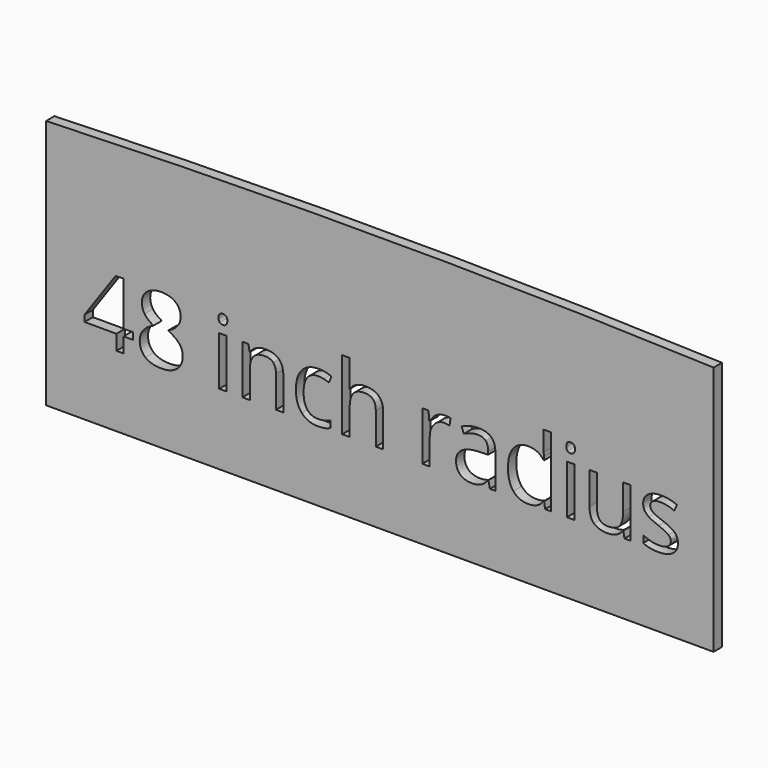
from build123d import *

# Parameters (mm, degrees)
F0_W     = 2.262627416
F0_H     = 14.9315971095
F1_DEPTH = 3.175


with BuildPart() as f1:
    # F0 (on Front) → F1 (new body)
    with BuildSketch(Plane.XZ):
        with BuildLine():
            Line((101.6, 2656.9875628301), (101.6, 2733.1875628301))
            ThreePointArc((101.6, 2733.1875628301), (0, 2735.0752848156), (-101.6, 2733.1875628301))
            Line((-101.6, 2733.1875628301), (-101.6, 2656.9875628301))
            Line((-101.6, 2656.9875628301), (101.6, 2656.9875628301))
        make_face()
        Polygon((-75.0654620295, 2685.1809285162), (-75.0654620295, 2683.1232018489), (-78.0212643186, 2683.1232018489), (-78.0212643186, 2678.5456319321), (-80.1879807459, 2678.5456319321), (-80.1879807459, 2683.1232018489), (-89.8749906079, 2683.1232018489), (-89.8749906079, 2685.0980962987), (-80.4190390369, 2698.5735902156), (-78.0212643186, 2698.5735902156), (-78.0212643186, 2685.1809285162), align=None, mode=Mode.SUBTRACT)
        with BuildLine():
            add(Edge.make_bspline(
                [(-70.8366593444, 2697.4618946644), (-69.2366896688, 2698.7479738315), (-66.5511819842, 2698.7479738315)],
                knots=[0, 0, 0, 1, 1, 1], degree=2))
            add(Edge.make_bspline(
                [(-66.5511819842, 2698.7479738315), (-63.8264379861, 2698.7479738315), (-62.2330076961, 2697.4815128212)],
                knots=[0, 0, 0, 1, 1, 1], degree=2))
            add(Edge.make_bspline(
                [(-62.2330076961, 2697.4815128212), (-60.639577406, 2696.2150518109), (-60.639577406, 2693.9829415277)],
                knots=[0, 0, 0, 1, 1, 1], degree=2))
            add(Edge.make_bspline(
                [(-60.639577406, 2693.9829415277), (-60.639577406, 2692.5093999735), (-61.5507317989, 2691.2974338431)],
                knots=[0, 0, 0, 1, 1, 1], degree=2))
            add(Edge.make_bspline(
                [(-61.5507317989, 2691.2974338431), (-62.4618861919, 2690.0854677128), (-64.4672977745, 2689.0914811023)],
                knots=[0, 0, 0, 1, 1, 1], degree=2))
            add(Edge.make_bspline(
                [(-64.4672977745, 2689.0914811023), (-62.0433655138, 2687.9318300567), (-61.0210415657, 2686.6588296608)],
                knots=[0, 0, 0, 1, 1, 1], degree=2))
            add(Edge.make_bspline(
                [(-61.0210415657, 2686.6588296608), (-59.9987176176, 2685.3858292649), (-59.9987176176, 2683.7073869621)],
                knots=[0, 0, 0, 1, 1, 1], degree=2))
            add(Edge.make_bspline(
                [(-59.9987176176, 2683.7073869621), (-59.9987176176, 2681.2311396166), (-61.7294750052, 2679.7510586768)],
                knots=[0, 0, 0, 1, 1, 1], degree=2))
            add(Edge.make_bspline(
                [(-61.7294750052, 2679.7510586768), (-63.4602323928, 2678.2709777371), (-66.4683497667, 2678.2709777371)],
                knots=[0, 0, 0, 1, 1, 1], degree=2))
            add(Edge.make_bspline(
                [(-66.4683497667, 2678.2709777371), (-69.6552103469, 2678.2709777371), (-71.3728889633, 2679.6682264593)],
                knots=[0, 0, 0, 1, 1, 1], degree=2))
            add(Edge.make_bspline(
                [(-71.3728889633, 2679.6682264593), (-73.0905675796, 2681.0654751815), (-73.0905675796, 2683.6289143349)],
                knots=[0, 0, 0, 1, 1, 1], degree=2))
            add(Edge.make_bspline(
                [(-73.0905675796, 2683.6289143349), (-73.0905675796, 2687.0468332061), (-68.9227991602, 2688.9563338)],
                knots=[0, 0, 0, 1, 1, 1], degree=2))
            add(Edge.make_bspline(
                [(-68.9227991602, 2688.9563338), (-70.8017826213, 2690.0157142664), (-71.6192058207, 2691.2494783488)],
                knots=[0, 0, 0, 1, 1, 1], degree=2))
            add(Edge.make_bspline(
                [(-71.6192058207, 2691.2494783488), (-72.4366290201, 2692.4832424311), (-72.4366290201, 2694.00909907)],
                knots=[0, 0, 0, 1, 1, 1], degree=2))
            add(Edge.make_bspline(
                [(-72.4366290201, 2694.00909907), (-72.4366290201, 2696.1758154973), (-70.8366593444, 2697.4618946644)],
                knots=[0, 0, 0, 1, 1, 1], degree=2))
        make_face(mode=Mode.SUBTRACT)
        with Locations((-47.7766059398, 2686.0114304869)):
            Rectangle(F0_W, F0_H, mode=Mode.SUBTRACT)
        with BuildLine():
            Line((-29.3682354887, 2678.5456319321), (-31.6308629047, 2678.5456319321))
            Line((-31.6308629047, 2678.5456319321), (-31.6308629047, 2688.2064842517))
            add(Edge.make_bspline(
                [(-31.6308629047, 2688.2064842517), (-31.6308629047, 2690.0287930376), (-32.4613648753, 2690.9290484546)],
                knots=[0, 0, 0, 1, 1, 1], degree=2))
            add(Edge.make_bspline(
                [(-32.4613648753, 2690.9290484546), (-33.291866846, 2691.8293038716), (-35.0662201375, 2691.8293038716)],
                knots=[0, 0, 0, 1, 1, 1], degree=2))
            add(Edge.make_bspline(
                [(-35.0662201375, 2691.8293038716), (-37.4073201807, 2691.8293038716), (-38.4972177799, 2690.5628428613)],
                knots=[0, 0, 0, 1, 1, 1], degree=2))
            add(Edge.make_bspline(
                [(-38.4972177799, 2690.5628428613), (-39.5871153791, 2689.296381851), (-39.5871153791, 2686.3798158754)],
                knots=[0, 0, 0, 1, 1, 1], degree=2))
            Line((-39.5871153791, 2686.3798158754), (-39.5871153791, 2678.5456319321))
            Line((-39.5871153791, 2678.5456319321), (-41.8497427952, 2678.5456319321))
            Line((-41.8497427952, 2678.5456319321), (-41.8497427952, 2693.4772290416))
            Line((-41.8497427952, 2693.4772290416), (-40.0099956477, 2693.4772290416))
            Line((-40.0099956477, 2693.4772290416), (-39.6437900543, 2691.4325811455))
            Line((-39.6437900543, 2691.4325811455), (-39.5348002944, 2691.4325811455))
            add(Edge.make_bspline(
                [(-39.5348002944, 2691.4325811455), (-38.8372658309, 2692.5355575159), (-37.5838835918, 2693.1437203763)],
                knots=[0, 0, 0, 1, 1, 1], degree=2))
            add(Edge.make_bspline(
                [(-37.5838835918, 2693.1437203763), (-36.3305013526, 2693.7518832366), (-34.7915659425, 2693.7518832366)],
                knots=[0, 0, 0, 1, 1, 1], degree=2))
            add(Edge.make_bspline(
                [(-34.7915659425, 2693.7518832366), (-32.0929794868, 2693.7518832366), (-30.7306074878, 2692.4505455031)],
                knots=[0, 0, 0, 1, 1, 1], degree=2))
            add(Edge.make_bspline(
                [(-30.7306074878, 2692.4505455031), (-29.3682354887, 2691.1492077697), (-29.3682354887, 2688.2849568789)],
                knots=[0, 0, 0, 1, 1, 1], degree=2))
            Line((-29.3682354887, 2688.2849568789), (-29.3682354887, 2678.5456319321))
        make_face(mode=Mode.SUBTRACT)
        with BuildLine():
            add(Edge.make_bspline(
                [(-14.9859467692, 2679.0513444181), (-16.4812862754, 2678.2709777371), (-18.7569924626, 2678.2709777371)],
                knots=[0, 0, 0, 1, 1, 1], degree=2))
            add(Edge.make_bspline(
                [(-18.7569924626, 2678.2709777371), (-22.0005277179, 2678.2709777371), (-23.7792405998, 2680.2676701389)],
                knots=[0, 0, 0, 1, 1, 1], degree=2))
            add(Edge.make_bspline(
                [(-23.7792405998, 2680.2676701389), (-25.5579534818, 2682.2643625407), (-25.5579534818, 2685.9176992933)],
                knots=[0, 0, 0, 1, 1, 1], degree=2))
            add(Edge.make_bspline(
                [(-25.5579534818, 2685.9176992933), (-25.5579534818, 2689.6625874443), (-23.7509032623, 2691.7072353405)],
                knots=[0, 0, 0, 1, 1, 1], degree=2))
            add(Edge.make_bspline(
                [(-23.7509032623, 2691.7072353405), (-21.9438530427, 2693.7518832366), (-18.6087663891, 2693.7518832366)],
                knots=[0, 0, 0, 1, 1, 1], degree=2))
            add(Edge.make_bspline(
                [(-18.6087663891, 2693.7518832366), (-17.531947561, 2693.7518832366), (-16.455128733, 2693.5186451504)],
                knots=[0, 0, 0, 1, 1, 1], degree=2))
            add(Edge.make_bspline(
                [(-16.455128733, 2693.5186451504), (-15.3783099049, 2693.2854070642), (-14.7679672494, 2692.9715165556)],
                knots=[0, 0, 0, 1, 1, 1], degree=2))
            Line((-14.7679672494, 2692.9715165556), (-15.4611421225, 2691.0532967809))
            add(Edge.make_bspline(
                [(-15.4611421225, 2691.0532967809), (-16.2109916707, 2691.3541085183), (-17.0959885213, 2691.5502900862)],
                knots=[0, 0, 0, 1, 1, 1], degree=2))
            add(Edge.make_bspline(
                [(-17.0959885213, 2691.5502900862), (-17.9809853719, 2691.746471654), (-18.6610814738, 2691.746471654)],
                knots=[0, 0, 0, 1, 1, 1], degree=2))
            add(Edge.make_bspline(
                [(-18.6610814738, 2691.746471654), (-23.2124938482, 2691.746471654), (-23.2124938482, 2685.9438568357)],
                knots=[0, 0, 0, 1, 1, 1], degree=2))
            add(Edge.make_bspline(
                [(-23.2124938482, 2685.9438568357), (-23.2124938482, 2683.1929552952), (-22.1029780922, 2681.7215935363)],
                knots=[0, 0, 0, 1, 1, 1], degree=2))
            add(Edge.make_bspline(
                [(-22.1029780922, 2681.7215935363), (-20.9934623362, 2680.2502317773), (-18.8136671377, 2680.2502317773)],
                knots=[0, 0, 0, 1, 1, 1], degree=2))
            add(Edge.make_bspline(
                [(-18.8136671377, 2680.2502317773), (-16.9477624478, 2680.2502317773), (-14.9859467692, 2681.0523964103)],
                knots=[0, 0, 0, 1, 1, 1], degree=2))
            Line((-14.9859467692, 2681.0523964103), (-14.9859467692, 2679.0513444181))
        make_face(mode=Mode.SUBTRACT)
        with BuildLine():
            Line((1.03990753, 2678.5456319321), (-1.2227198861, 2678.5456319321))
            Line((-1.2227198861, 2678.5456319321), (-1.2227198861, 2688.2064842517))
            add(Edge.make_bspline(
                [(-1.2227198861, 2688.2064842517), (-1.2227198861, 2690.0287930376), (-2.0532218567, 2690.9290484546)],
                knots=[0, 0, 0, 1, 1, 1], degree=2))
            add(Edge.make_bspline(
                [(-2.0532218567, 2690.9290484546), (-2.8837238273, 2691.8293038716), (-4.6580771189, 2691.8293038716)],
                knots=[0, 0, 0, 1, 1, 1], degree=2))
            add(Edge.make_bspline(
                [(-4.6580771189, 2691.8293038716), (-7.0122559332, 2691.8293038716), (-8.0956141468, 2690.5475842949)],
                knots=[0, 0, 0, 1, 1, 1], degree=2))
            add(Edge.make_bspline(
                [(-8.0956141468, 2690.5475842949), (-9.1789723605, 2689.2658647182), (-9.1789723605, 2686.353658333)],
                knots=[0, 0, 0, 1, 1, 1], degree=2))
            Line((-9.1789723605, 2686.353658333), (-9.1789723605, 2678.5456319321))
            Line((-9.1789723605, 2678.5456319321), (-11.4415997765, 2678.5456319321))
            Line((-11.4415997765, 2678.5456319321), (-11.4415997765, 2699.7463200324))
            Line((-11.4415997765, 2699.7463200324), (-9.1789723605, 2699.7463200324))
            Line((-9.1789723605, 2699.7463200324), (-9.1789723605, 2693.3290029681))
            add(Edge.make_bspline(
                [(-9.1789723605, 2693.3290029681), (-9.1789723605, 2692.1693519225), (-9.2879621204, 2691.4064236031)],
                knots=[0, 0, 0, 1, 1, 1], degree=2))
            Line((-9.2879621204, 2691.4064236031), (-9.1528148181, 2691.4064236031))
            add(Edge.make_bspline(
                [(-9.1528148181, 2691.4064236031), (-8.4857974874, 2692.4832424311), (-7.252033405, 2693.1023042675)],
                knots=[0, 0, 0, 1, 1, 1], degree=2))
            add(Edge.make_bspline(
                [(-7.252033405, 2693.1023042675), (-6.0182693227, 2693.7213661038), (-4.440097599, 2693.7213661038)],
                knots=[0, 0, 0, 1, 1, 1], degree=2))
            add(Edge.make_bspline(
                [(-4.440097599, 2693.7213661038), (-1.7022748297, 2693.7213661038), (-0.3311836499, 2692.4200283704)],
                knots=[0, 0, 0, 1, 1, 1], degree=2))
            add(Edge.make_bspline(
                [(-0.3311836499, 2692.4200283704), (1.03990753, 2691.1186906369), (1.03990753, 2688.2849568789)],
                knots=[0, 0, 0, 1, 1, 1], degree=2))
            Line((1.03990753, 2688.2849568789), (1.03990753, 2678.5456319321))
        make_face(mode=Mode.SUBTRACT)
        with BuildLine():
            add(Edge.make_bspline(
                [(17.1703919986, 2692.9606175796), (18.3431218154, 2693.7518832366), (19.7469099232, 2693.7518832366)],
                knots=[0, 0, 0, 1, 1, 1], degree=2))
            add(Edge.make_bspline(
                [(19.7469099232, 2693.7518832366), (20.7408965337, 2693.7518832366), (21.5299823956, 2693.5862188015)],
                knots=[0, 0, 0, 1, 1, 1], degree=2))
            Line((21.5299823956, 2693.5862188015), (21.216091887, 2691.4892558206))
            add(Edge.make_bspline(
                [(21.216091887, 2691.4892558206), (20.2918587228, 2691.6941565693), (19.5812454881, 2691.6941565693)],
                knots=[0, 0, 0, 1, 1, 1], degree=2))
            add(Edge.make_bspline(
                [(19.5812454881, 2691.6941565693), (17.767655883, 2691.6941565693), (16.4815767159, 2690.2227948103)],
                knots=[0, 0, 0, 1, 1, 1], degree=2))
            add(Edge.make_bspline(
                [(16.4815767159, 2690.2227948103), (15.1954975488, 2688.7514330513), (15.1954975488, 2686.5585590817)],
                knots=[0, 0, 0, 1, 1, 1], degree=2))
            Line((15.1954975488, 2686.5585590817), (15.1954975488, 2678.5456319321))
            Line((15.1954975488, 2678.5456319321), (12.9328701328, 2678.5456319321))
            Line((12.9328701328, 2678.5456319321), (12.9328701328, 2693.4772290416))
            Line((12.9328701328, 2693.4772290416), (14.7987748227, 2693.4772290416))
            Line((14.7987748227, 2693.4772290416), (15.0603502465, 2690.71324873))
            Line((15.0603502465, 2690.71324873), (15.1693400064, 2690.71324873))
            add(Edge.make_bspline(
                [(15.1693400064, 2690.71324873), (15.9976621819, 2692.1693519225), (17.1703919986, 2692.9606175796)],
                knots=[0, 0, 0, 1, 1, 1], degree=2))
        make_face(mode=Mode.SUBTRACT)
        with BuildLine():
            Line((35.1842195188, 2678.5456319321), (33.505777216, 2678.5456319321))
            Line((33.505777216, 2678.5456319321), (33.0567394051, 2680.6731120458))
            Line((33.0567394051, 2680.6731120458), (32.9477496452, 2680.6731120458))
            add(Edge.make_bspline(
                [(32.9477496452, 2680.6731120458), (31.8316945036, 2679.269323938), (30.7221787475, 2678.7701508375)],
                knots=[0, 0, 0, 1, 1, 1], degree=2))
            add(Edge.make_bspline(
                [(30.7221787475, 2678.7701508375), (29.6126629915, 2678.2709777371), (27.9472994599, 2678.2709777371)],
                knots=[0, 0, 0, 1, 1, 1], degree=2))
            add(Edge.make_bspline(
                [(27.9472994599, 2678.2709777371), (25.7282679478, 2678.2709777371), (24.4683463231, 2679.4175500115)],
                knots=[0, 0, 0, 1, 1, 1], degree=2))
            add(Edge.make_bspline(
                [(24.4683463231, 2679.4175500115), (23.2084246984, 2680.5641222859), (23.2084246984, 2682.674164038)],
                knots=[0, 0, 0, 1, 1, 1], degree=2))
            add(Edge.make_bspline(
                [(23.2084246984, 2682.674164038), (23.2084246984, 2687.1950592796), (30.4409851669, 2687.4130387995)],
                knots=[0, 0, 0, 1, 1, 1], degree=2))
            Line((30.4409851669, 2687.4130387995), (32.9739071876, 2687.495871017))
            Line((32.9739071876, 2687.495871017), (32.9739071876, 2688.4244637716))
            add(Edge.make_bspline(
                [(32.9739071876, 2688.4244637716), (32.9739071876, 2690.1813787015), (32.2196980489, 2691.0184200577)],
                knots=[0, 0, 0, 1, 1, 1], degree=2))
            add(Edge.make_bspline(
                [(32.2196980489, 2691.0184200577), (31.4654889102, 2691.855461414), (29.8001253786, 2691.855461414)],
                knots=[0, 0, 0, 1, 1, 1], degree=2))
            add(Edge.make_bspline(
                [(29.8001253786, 2691.855461414), (27.9342206887, 2691.855461414), (25.5800418743, 2690.71324873)],
                knots=[0, 0, 0, 1, 1, 1], degree=2))
            Line((25.5800418743, 2690.71324873), (24.8825074108, 2692.4440061175))
            add(Edge.make_bspline(
                [(24.8825074108, 2692.4440061175), (25.9854837813, 2693.0412700019), (27.2999002859, 2693.3813180529)],
                knots=[0, 0, 0, 1, 1, 1], degree=2))
            add(Edge.make_bspline(
                [(27.2999002859, 2693.3813180529), (28.6143167906, 2693.7213661038), (29.9396322713, 2693.7213661038)],
                knots=[0, 0, 0, 1, 1, 1], degree=2))
            add(Edge.make_bspline(
                [(29.9396322713, 2693.7213661038), (32.6077015942, 2693.7213661038), (33.8959605565, 2692.5377373111)],
                knots=[0, 0, 0, 1, 1, 1], degree=2))
            add(Edge.make_bspline(
                [(33.8959605565, 2692.5377373111), (35.1842195188, 2691.3541085183), (35.1842195188, 2688.7383542801)],
                knots=[0, 0, 0, 1, 1, 1], degree=2))
            Line((35.1842195188, 2688.7383542801), (35.1842195188, 2678.5456319321))
        make_face(mode=Mode.SUBTRACT)
        with BuildLine():
            Line((50.3032790154, 2678.5456319321), (50.002467278, 2680.5466839243))
            Line((50.002467278, 2680.5466839243), (49.8803987469, 2680.5466839243))
            add(Edge.make_bspline(
                [(49.8803987469, 2680.5466839243), (48.3153057944, 2678.2709777371), (45.1938390702, 2678.2709777371)],
                knots=[0, 0, 0, 1, 1, 1], degree=2))
            add(Edge.make_bspline(
                [(45.1938390702, 2678.2709777371), (42.2641943234, 2678.2709777371), (40.6358873102, 2680.2742095245)],
                knots=[0, 0, 0, 1, 1, 1], degree=2))
            add(Edge.make_bspline(
                [(40.6358873102, 2680.2742095245), (39.0075802969, 2682.2774413119), (39.0075802969, 2685.9700143781)],
                knots=[0, 0, 0, 1, 1, 1], degree=2))
            add(Edge.make_bspline(
                [(39.0075802969, 2685.9700143781), (39.0075802969, 2689.6625874443), (40.6424266958, 2691.7072353405)],
                knots=[0, 0, 0, 1, 1, 1], degree=2))
            add(Edge.make_bspline(
                [(40.6424266958, 2691.7072353405), (42.2772730946, 2693.7518832366), (45.1938390702, 2693.7518832366)],
                knots=[0, 0, 0, 1, 1, 1], degree=2))
            add(Edge.make_bspline(
                [(45.1938390702, 2693.7518832366), (48.2324735768, 2693.7518832366), (49.8542412045, 2691.5415709054)],
                knots=[0, 0, 0, 1, 1, 1], degree=2))
            Line((49.8542412045, 2691.5415709054), (50.0329844108, 2691.5415709054))
            Line((50.0329844108, 2691.5415709054), (49.9370734221, 2692.6183897334))
            Line((49.9370734221, 2692.6183897334), (49.8803987469, 2693.6690510191))
            Line((49.8803987469, 2693.6690510191), (49.8803987469, 2699.7463200324))
            Line((49.8803987469, 2699.7463200324), (52.1430261629, 2699.7463200324))
            Line((52.1430261629, 2699.7463200324), (52.1430261629, 2678.5456319321))
            Line((52.1430261629, 2678.5456319321), (50.3032790154, 2678.5456319321))
        make_face(mode=Mode.SUBTRACT)
        with Locations((58.0698893075, 2686.0114304869)):
            Rectangle(F0_W, F0_H, mode=Mode.SUBTRACT)
        with BuildLine():
            Line((63.8354476075, 2693.4772290416), (66.1242325659, 2693.4772290416))
            Line((66.1242325659, 2693.4772290416), (66.1242325659, 2683.7902191796))
            add(Edge.make_bspline(
                [(66.1242325659, 2683.7902191796), (66.1242325659, 2681.9635508033), (66.9547345365, 2681.0654751815)],
                knots=[0, 0, 0, 1, 1, 1], degree=2))
            add(Edge.make_bspline(
                [(66.9547345365, 2681.0654751815), (67.7852365071, 2680.1673995598), (69.5552302083, 2680.1673995598)],
                knots=[0, 0, 0, 1, 1, 1], degree=2))
            add(Edge.make_bspline(
                [(69.5552302083, 2680.1673995598), (71.9006898418, 2680.1673995598), (72.9818682603, 2681.4469393413)],
                knots=[0, 0, 0, 1, 1, 1], degree=2))
            add(Edge.make_bspline(
                [(72.9818682603, 2681.4469393413), (74.0630466787, 2682.7264791228), (74.0630466787, 2685.6299663271)],
                knots=[0, 0, 0, 1, 1, 1], degree=2))
            Line((74.0630466787, 2685.6299663271), (74.0630466787, 2693.4772290416))
            Line((74.0630466787, 2693.4772290416), (76.3256740947, 2693.4772290416))
            Line((76.3256740947, 2693.4772290416), (76.3256740947, 2678.5456319321))
            Line((76.3256740947, 2678.5456319321), (74.4597694049, 2678.5456319321))
            Line((74.4597694049, 2678.5456319321), (74.1328001251, 2680.5466839243))
            Line((74.1328001251, 2680.5466839243), (74.010731594, 2680.5466839243))
            add(Edge.make_bspline(
                [(74.010731594, 2680.5466839243), (73.3175567209, 2679.4437075539), (72.0837926385, 2678.8573426455)],
                knots=[0, 0, 0, 1, 1, 1], degree=2))
            add(Edge.make_bspline(
                [(72.0837926385, 2678.8573426455), (70.8500285562, 2678.2709777371), (69.2674972421, 2678.2709777371)],
                knots=[0, 0, 0, 1, 1, 1], degree=2))
            add(Edge.make_bspline(
                [(69.2674972421, 2678.2709777371), (66.542753244, 2678.2709777371), (65.1891004258, 2679.565776085)],
                knots=[0, 0, 0, 1, 1, 1], degree=2))
            add(Edge.make_bspline(
                [(65.1891004258, 2679.565776085), (63.8354476075, 2680.8605744329), (63.8354476075, 2683.7073869621)],
                knots=[0, 0, 0, 1, 1, 1], degree=2))
            Line((63.8354476075, 2683.7073869621), (63.8354476075, 2693.4772290416))
        make_face(mode=Mode.SUBTRACT)
        with BuildLine():
            add(Edge.make_bspline(
                [(89.8186063733, 2685.0850175275), (90.7515587182, 2684.1041096882), (90.7515587182, 2682.6174893628)],
                knots=[0, 0, 0, 1, 1, 1], degree=2))
            add(Edge.make_bspline(
                [(90.7515587182, 2682.6174893628), (90.7515587182, 2680.5336051531), (89.1995445369, 2679.4022914451)],
                knots=[0, 0, 0, 1, 1, 1], degree=2))
            add(Edge.make_bspline(
                [(89.1995445369, 2679.4022914451), (87.6475303556, 2678.2709777371), (84.83995414, 2678.2709777371)],
                knots=[0, 0, 0, 1, 1, 1], degree=2))
            add(Edge.make_bspline(
                [(84.83995414, 2678.2709777371), (81.8710730797, 2678.2709777371), (80.2100691384, 2679.2126492628)],
                knots=[0, 0, 0, 1, 1, 1], degree=2))
            Line((80.2100691384, 2679.2126492628), (80.2100691384, 2681.3096122438))
            add(Edge.make_bspline(
                [(80.2100691384, 2681.3096122438), (81.2868879665, 2680.7646634441), (82.5184722536, 2680.4529527308)],
                knots=[0, 0, 0, 1, 1, 1], degree=2))
            add(Edge.make_bspline(
                [(82.5184722536, 2680.4529527308), (83.7500565407, 2680.1412420174), (84.8966288151, 2680.1412420174)],
                knots=[0, 0, 0, 1, 1, 1], degree=2))
            add(Edge.make_bspline(
                [(84.8966288151, 2680.1412420174), (86.6666225163, 2680.1412420174), (87.619193018, 2680.7058089738)],
                knots=[0, 0, 0, 1, 1, 1], degree=2))
            add(Edge.make_bspline(
                [(87.619193018, 2680.7058089738), (88.5717635198, 2681.2703759302), (88.5717635198, 2682.4300269758)],
                knots=[0, 0, 0, 1, 1, 1], degree=2))
            add(Edge.make_bspline(
                [(88.5717635198, 2682.4300269758), (88.5717635198, 2683.3019450552), (87.8175543811, 2683.9210068915)],
                knots=[0, 0, 0, 1, 1, 1], degree=2))
            add(Edge.make_bspline(
                [(87.8175543811, 2683.9210068915), (87.0633452424, 2684.5400687279), (84.8661116824, 2685.3858292649)],
                knots=[0, 0, 0, 1, 1, 1], degree=2))
            add(Edge.make_bspline(
                [(84.8661116824, 2685.3858292649), (82.7822274726, 2686.1618363556), (81.9037700076, 2686.7416618783)],
                knots=[0, 0, 0, 1, 1, 1], degree=2))
            add(Edge.make_bspline(
                [(81.9037700076, 2686.7416618783), (81.0253125426, 2687.3214874011), (80.5958928885, 2688.056078383)],
                knots=[0, 0, 0, 1, 1, 1], degree=2))
            add(Edge.make_bspline(
                [(80.5958928885, 2688.056078383), (80.1664732344, 2688.7906693649), (80.1664732344, 2689.8108135178)],
                knots=[0, 0, 0, 1, 1, 1], degree=2))
            add(Edge.make_bspline(
                [(80.1664732344, 2689.8108135178), (80.1664732344, 2691.6374818941), (81.6530935598, 2692.6946825654)],
                knots=[0, 0, 0, 1, 1, 1], degree=2))
            add(Edge.make_bspline(
                [(81.6530935598, 2692.6946825654), (83.1397138852, 2693.7518832366), (85.7249509905, 2693.7518832366)],
                knots=[0, 0, 0, 1, 1, 1], degree=2))
            add(Edge.make_bspline(
                [(85.7249509905, 2693.7518832366), (88.1358044801, 2693.7518832366), (90.4420278, 2692.7709753973)],
                knots=[0, 0, 0, 1, 1, 1], degree=2))
            Line((90.4420278, 2692.7709753973), (89.6355035766, 2690.9312282498))
            add(Edge.make_bspline(
                [(89.6355035766, 2690.9312282498), (87.3903145222, 2691.855461414), (85.5636461459, 2691.855461414)],
                knots=[0, 0, 0, 1, 1, 1], degree=2))
            add(Edge.make_bspline(
                [(85.5636461459, 2691.855461414), (83.9549572894, 2691.855461414), (83.13753409, 2691.3519287231)],
                knots=[0, 0, 0, 1, 1, 1], degree=2))
            add(Edge.make_bspline(
                [(83.13753409, 2691.3519287231), (82.3201108905, 2690.8483960323), (82.3201108905, 2689.9633991817)],
                knots=[0, 0, 0, 1, 1, 1], degree=2))
            add(Edge.make_bspline(
                [(82.3201108905, 2689.9633991817), (82.3201108905, 2689.3617757069), (82.6274620135, 2688.9410752336)],
                knots=[0, 0, 0, 1, 1, 1], degree=2))
            add(Edge.make_bspline(
                [(82.6274620135, 2688.9410752336), (82.9348131365, 2688.5203747603), (83.6149092384, 2688.1389106006)],
                knots=[0, 0, 0, 1, 1, 1], degree=2))
            add(Edge.make_bspline(
                [(83.6149092384, 2688.1389106006), (84.2950053404, 2687.7574464408), (86.2306634766, 2687.0337544349)],
                knots=[0, 0, 0, 1, 1, 1], degree=2))
            add(Edge.make_bspline(
                [(86.2306634766, 2687.0337544349), (88.8856540283, 2686.0659253668), (89.8186063733, 2685.0850175275)],
                knots=[0, 0, 0, 1, 1, 1], degree=2))
        make_face(mode=Mode.SUBTRACT)
        with BuildLine():
            add(Edge.make_bspline(
                [(-48.7182774655, 2696.3850758364), (-49.0997416253, 2696.7600006105), (-49.0997416253, 2697.52292893)],
                knots=[0, 0, 0, 1, 1, 1], degree=2))
            add(Edge.make_bspline(
                [(-49.0997416253, 2697.52292893), (-49.0997416253, 2698.2989360206), (-48.7182774655, 2698.6607820236)],
                knots=[0, 0, 0, 1, 1, 1], degree=2))
            add(Edge.make_bspline(
                [(-48.7182774655, 2698.6607820236), (-48.3368133058, 2699.0226280265), (-47.7613473734, 2699.0226280265)],
                knots=[0, 0, 0, 1, 1, 1], degree=2))
            add(Edge.make_bspline(
                [(-47.7613473734, 2699.0226280265), (-47.2163985738, 2699.0226280265), (-46.8218556429, 2698.654242638)],
                knots=[0, 0, 0, 1, 1, 1], degree=2))
            add(Edge.make_bspline(
                [(-46.8218556429, 2698.654242638), (-46.427312712, 2698.2858572494), (-46.427312712, 2697.52292893)],
                knots=[0, 0, 0, 1, 1, 1], degree=2))
            add(Edge.make_bspline(
                [(-46.427312712, 2697.52292893), (-46.427312712, 2696.7600006105), (-46.8218556429, 2696.3850758364)],
                knots=[0, 0, 0, 1, 1, 1], degree=2))
            add(Edge.make_bspline(
                [(-46.8218556429, 2696.3850758364), (-47.2163985738, 2696.0101510622), (-47.7613473734, 2696.0101510622)],
                knots=[0, 0, 0, 1, 1, 1], degree=2))
            add(Edge.make_bspline(
                [(-47.7613473734, 2696.0101510622), (-48.3368133058, 2696.0101510622), (-48.7182774655, 2696.3850758364)],
                knots=[0, 0, 0, 1, 1, 1], degree=2))
        make_face(mode=Mode.SUBTRACT)
        with BuildLine():
            add(Edge.make_bspline(
                [(57.1282177818, 2696.3850758364), (56.7467536221, 2696.7600006105), (56.7467536221, 2697.52292893)],
                knots=[0, 0, 0, 1, 1, 1], degree=2))
            add(Edge.make_bspline(
                [(56.7467536221, 2697.52292893), (56.7467536221, 2698.2989360206), (57.1282177818, 2698.6607820236)],
                knots=[0, 0, 0, 1, 1, 1], degree=2))
            add(Edge.make_bspline(
                [(57.1282177818, 2698.6607820236), (57.5096819415, 2699.0226280265), (58.0851478739, 2699.0226280265)],
                knots=[0, 0, 0, 1, 1, 1], degree=2))
            add(Edge.make_bspline(
                [(58.0851478739, 2699.0226280265), (58.6300966736, 2699.0226280265), (59.0246396045, 2698.654242638)],
                knots=[0, 0, 0, 1, 1, 1], degree=2))
            add(Edge.make_bspline(
                [(59.0246396045, 2698.654242638), (59.4191825354, 2698.2858572494), (59.4191825354, 2697.52292893)],
                knots=[0, 0, 0, 1, 1, 1], degree=2))
            add(Edge.make_bspline(
                [(59.4191825354, 2697.52292893), (59.4191825354, 2696.7600006105), (59.0246396045, 2696.3850758364)],
                knots=[0, 0, 0, 1, 1, 1], degree=2))
            add(Edge.make_bspline(
                [(59.0246396045, 2696.3850758364), (58.6300966736, 2696.0101510622), (58.0851478739, 2696.0101510622)],
                knots=[0, 0, 0, 1, 1, 1], degree=2))
            add(Edge.make_bspline(
                [(58.0851478739, 2696.0101510622), (57.5096819415, 2696.0101510622), (57.1282177818, 2696.3850758364)],
                knots=[0, 0, 0, 1, 1, 1], degree=2))
        make_face(mode=Mode.SUBTRACT)
    extrude(amount=F1_DEPTH)


solid = f1.part
